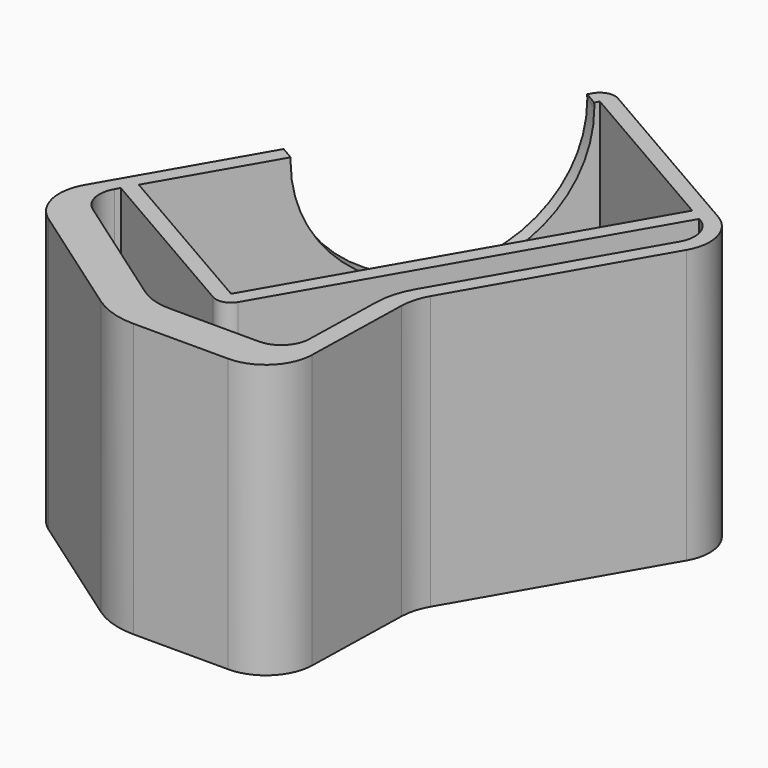
from build123d import *

# Parameters (mm, degrees)
F1_DEPTH = 29
F4_DEPTH = 2
F3_R     = 2.5
F5_DEPTH = 2


with BuildPart() as f1:
    # F0 (on Top) → F1 (new body)
    with BuildSketch(Plane.XY):
        with BuildLine():
            ThreePointArc((-15.034174097, 47.3746718097), (-14.5746321535, 50.8652394172), (-16.7178909544, 53.6583886671))
            Line((-16.7178909544, 53.6583886671), (-36.4632701607, 65.0583886671))
            ThreePointArc((-36.4632701607, 65.0583886671), (-37.6773806328, 65.2182293432), (-38.6489108067, 64.4727480211))
            Line((-38.6489108067, 64.4727480211), (-59.9489108067, 27.5800658199))
            Line((-59.9489108067, 27.5800658199), (-61.2528943298, 25.3215001057))
            ThreePointArc((-61.2528943298, 25.3215001057), (-61.8042473465, 21.739302036), (-59.7906494926, 18.7257398843))
            Line((-59.7906494926, 18.7257398843), (-47.1451993997, 9.8713004052))
            ThreePointArc((-47.1451993997, 9.8713004052), (-44.962234305, 8.7947811535), (-42.5565879089, 8.4245167595))
            Line((-42.5565879089, 8.4245167595), (-32.4906988756, 8.4245167595))
            ThreePointArc((-32.4906988756, 8.4245167595), (-28.9976482356, 9.8470040444), (-27.492125644, 13.3050778688))
            Line((-27.492125644, 13.3050778688), (-27.2173277766, 24.8054966721))
            ThreePointArc((-27.2173277766, 24.8054966721), (-26.9956322368, 26.2841998916), (-26.4151923214, 27.6621700032))
            Line((-26.4151923214, 27.6621700032), (-15.034174097, 47.3746718097))
        make_face()
        with BuildLine():
            Line((-58.5632701607, 26.7800658199), (-40.3767366812, 16.2800658199))
            ThreePointArc((-40.3767366812, 16.2800658199), (-39.162626209, 16.1202251439), (-38.1910960352, 16.8657064659))
            Line((-38.1910960352, 16.8657064659), (-17.6910960352, 52.3727480211))
            Line((-17.6910960352, 52.3727480211), (-17.5178909544, 52.2727480211))
            ThreePointArc((-17.5178909544, 52.2727480211), (-16.1201134755, 50.451128945), (-16.419814743, 48.1746718097))
            Line((-16.419814743, 48.1746718097), (-28.1671840961, 27.8276312349))
            ThreePointArc((-28.1671840961, 27.8276312349), (-28.9411039834, 25.9903377528), (-29.2366980364, 24.01873346))
            Line((-29.2366980364, 24.01873346), (-29.4437657435, 15.3528534251))
            ThreePointArc((-29.4437657435, 15.3528534251), (-30.3470792985, 13.2780091304), (-32.4429096825, 12.4245167595))
            Line((-32.4429096825, 12.4245167595), (-41.9259903312, 12.4245167595))
            ThreePointArc((-41.9259903312, 12.4245167595), (-43.7302251282, 12.702215055), (-45.3674489493, 13.5096044937))
            Line((-45.3674489493, 13.5096044937), (-57.9685892112, 22.3330178952))
            ThreePointArc((-57.9685892112, 22.3330178952), (-59.1767479235, 24.1411551862), (-58.8459361135, 26.290474028))
            Line((-58.8459361135, 26.290474028), (-58.5632701607, 26.7800658199))
        make_face(mode=Mode.SUBTRACT)
        Polygon((-37.2632701607, 63.6727480211), (-19.0767366812, 53.1727480211), (-39.5767366812, 17.6657064659), (-57.7632701607, 28.1657064659), align=None, mode=Mode.SUBTRACT)
    extrude(amount=F1_DEPTH)

    # F2 (on face) → F4 (cut)
    with BuildSketch(Plane(origin=(-56.9042019241, 32.8536562989, 0), x_dir=(-0.5, -0.8660254038, 0), z_dir=(-0.8660254038, 0.5, 0))):
        with BuildLine():
            ThreePointArc((-36.0013197979, 29), (-36.0082664269, 28.7500428927), (-36.0105822347, 28.5))
            ThreePointArc((-36.0105822347, 28.5), (-22.5105822347, 15), (-9.0105822347, 28.5))
            ThreePointArc((-9.0105822347, 28.5), (-9.0128980425, 28.7500428927), (-9.0198446715, 29))
            Line((-9.0198446715, 29), (-36.0013197979, 29))
        make_face()
        with BuildLine():
            ThreePointArc((-9.0198446715, 29), (-9.0128980425, 28.7500428927), (-9.0105822347, 28.5))
            Line((-9.0105822347, 28.5), (-9.0105822347, 29))
            Line((-9.0105822347, 29), (-9.0198446715, 29))
        make_face()
        with BuildLine():
            ThreePointArc((-14.496704046, 0), (-23.5105822347, 6.5), (-32.5244604233, 0))
            Line((-32.5244604233, 0), (-14.496704046, 0))
        make_face()
    extrude(amount=-F4_DEPTH, mode=Mode.SUBTRACT)

    # F3 (on face) → F5 (cut)
    with BuildSketch(Plane(origin=(19.0552911173, 33.0047323683, 0), x_dir=(-0.8660254038, 0.5, 0), z_dir=(0.5, 0.8660254038, 0))):
        with BuildLine():
            Line((45.6529565405, 0), (56.5616686551, 0))
            ThreePointArc((56.5616686551, 0), (51.1073125978, 3.5), (45.6529565405, 0))
        make_face()
        with Locations((57.1073125978, 5.5)):
            Circle(F3_R)
    extrude(amount=-F5_DEPTH, mode=Mode.SUBTRACT)


solid = f1.part
